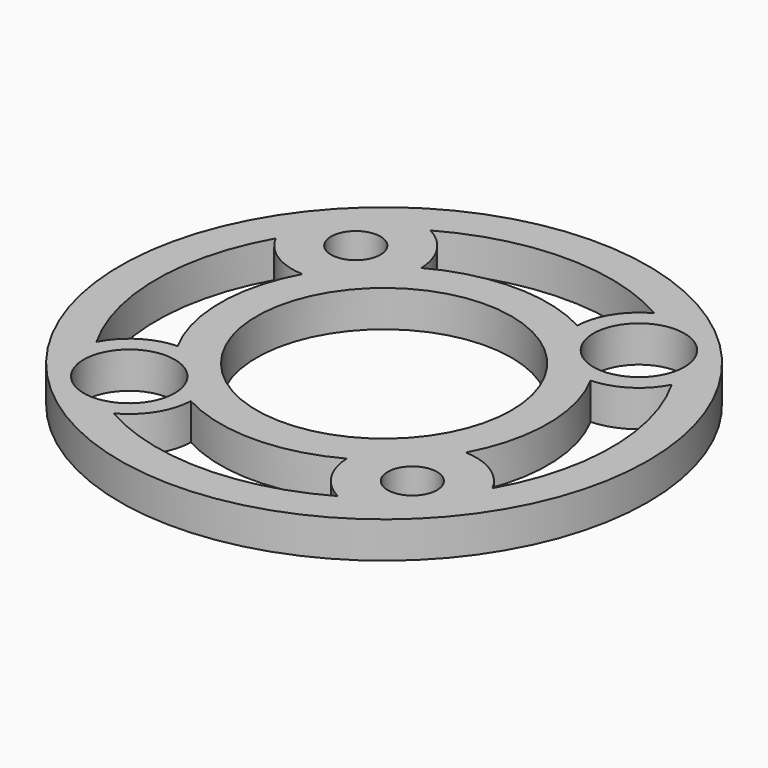
from build123d import *

# Parameters (mm, degrees)
F0_R     = 23.01875
F0_R_2   = 3.96875
F0_R_3   = 2.15265
F0_R_4   = 11.1125
F1_DEPTH = 3.175
F3_DEPTH = 3.175


with BuildPart() as f1:
    # F0 (on Top) → F1 (new body)
    with BuildSketch(Plane.XY):
        Circle(F0_R)
        with Locations((-12.347852, -12.347852)):
            Circle(F0_R_2, mode=Mode.SUBTRACT)
        with Locations((12.347852, -12.347852)):
            Circle(F0_R_3, mode=Mode.SUBTRACT)
        with Locations((-12.347852, 12.347852)):
            Circle(F0_R_3, mode=Mode.SUBTRACT)
        Circle(F0_R_4, mode=Mode.SUBTRACT)
        with Locations((12.347852, 12.347852)):
            Circle(F0_R_2, mode=Mode.SUBTRACT)
    extrude(amount=F1_DEPTH)

    # F2 (on face) → F3 (cut, through all)
    with BuildSketch(Plane.XY.offset(3.175)):
        with BuildLine():
            ThreePointArc((-9.771912, 17.270905), (-7.652597, 15.318794), (-6.795954, 12.567723))
            ThreePointArc((-6.795954, 12.567723), (0, 14.2875), (6.795954, 12.567723))
            ThreePointArc((6.795954, 12.567723), (7.652597, 15.318794), (9.771912, 17.270905))
            ThreePointArc((9.771912, 17.270905), (0, 19.84375), (-9.771912, 17.270905))
        make_face()
        with BuildLine():
            ThreePointArc((-12.567723, 6.795954), (-15.318794, 7.652597), (-17.270905, 9.771912))
            ThreePointArc((-17.270905, 9.771912), (-19.84375, 0), (-17.270905, -9.771912))
            ThreePointArc((-17.270905, -9.771912), (-15.318794, -7.652597), (-12.567723, -6.795954))
            ThreePointArc((-12.567723, -6.795954), (-14.2875, 0), (-12.567723, 6.795954))
        make_face()
        with BuildLine():
            ThreePointArc((17.270905, 9.771912), (15.318794, 7.652597), (12.567723, 6.795954))
            ThreePointArc((12.567723, 6.795954), (14.2875, 0), (12.567723, -6.795954))
            ThreePointArc((12.567723, -6.795954), (15.318794, -7.652597), (17.270905, -9.771912))
            ThreePointArc((17.270905, -9.771912), (19.84375, 0), (17.270905, 9.771912))
        make_face()
        with BuildLine():
            ThreePointArc((-6.795954, -12.567723), (-7.652597, -15.318794), (-9.771912, -17.270905))
            ThreePointArc((-9.771912, -17.270905), (0, -19.84375), (9.771912, -17.270905))
            ThreePointArc((9.771912, -17.270905), (7.652597, -15.318794), (6.795954, -12.567723))
            ThreePointArc((6.795954, -12.567723), (0, -14.2875), (-6.795954, -12.567723))
        make_face()
    extrude(amount=-F3_DEPTH, mode=Mode.SUBTRACT)


solid = f1.part
